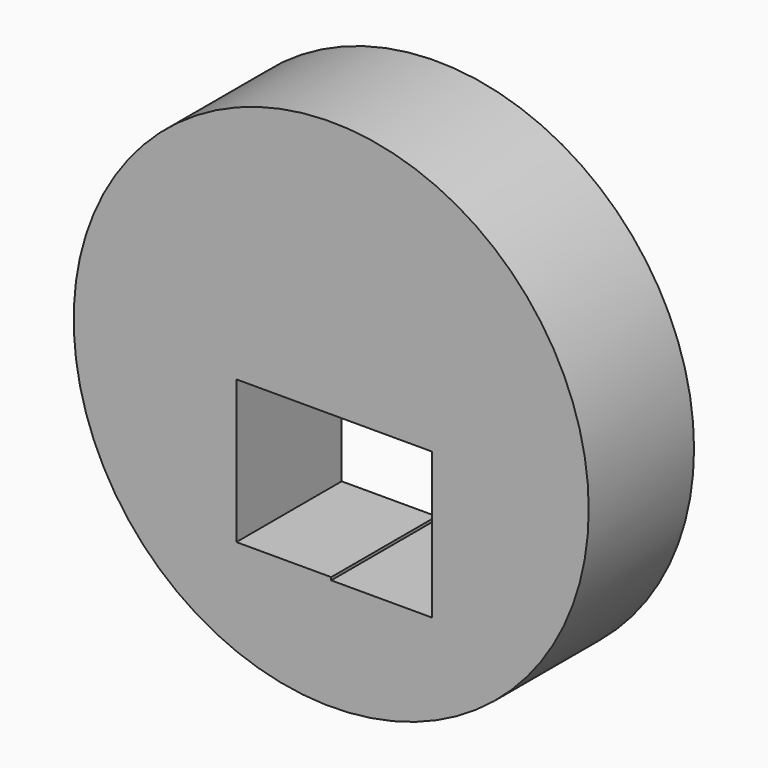
from build123d import *

# Parameters (mm, degrees)
F0_R     = 49.689241
F1_DEPTH = 25.4


with BuildPart() as f1:
    # F0 (on Front) → F1 (new body)
    with BuildSketch(Plane.XZ):
        Circle(F0_R)
        Polygon((-18.298686, 0), (0, 0), (19.484133, 0), (19.484133, -28.196737), (0, -28.196737), (0, -27.647451), (-18.298686, -27.647451), align=None, mode=Mode.SUBTRACT)
    extrude(amount=F1_DEPTH)


solid = f1.part
